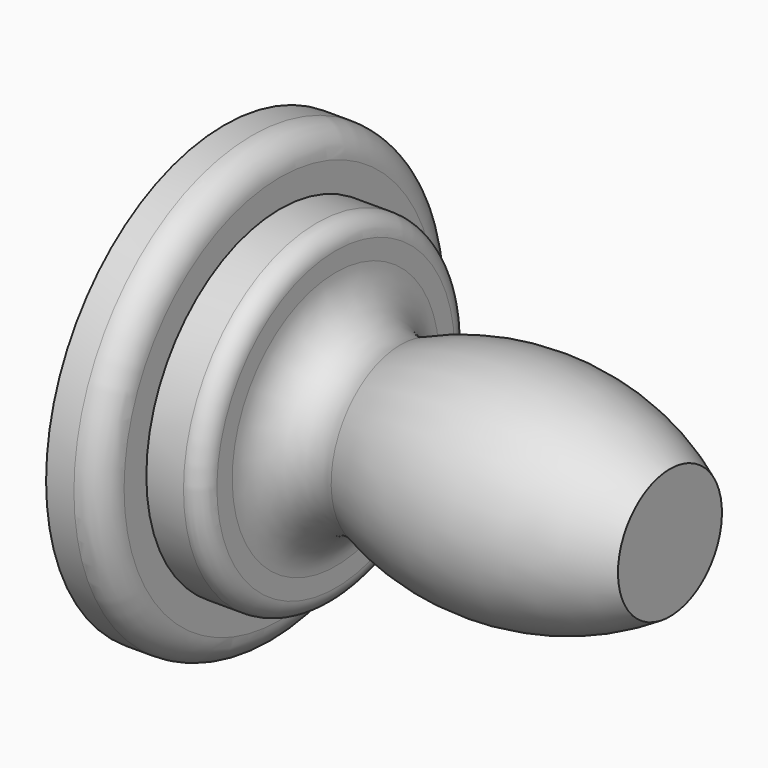
from build123d import *


with BuildPart() as f1:
    # F0 (on Front) → F1 (revolve)
    with BuildSketch(Plane.XZ):
        with BuildLine():
            Line((-24, 0), (0, 0))
            Line((0, 0), (0, 3.5))
            ThreePointArc((0, 3.5), (-7.107681, 5.895494), (-14.507932, 4.673281))
            ThreePointArc((-14.507932, 4.673281), (-16.872922, 4.878736), (-18, 6.968014))
            Line((-18, 6.968014), (-18, 8))
            ThreePointArc((-18, 8), (-18.292893, 8.707107), (-19, 9))
            Line((-19, 9), (-21, 9))
            Line((-21, 9), (-21, 10.5))
            ThreePointArc((-21, 10.5), (-21.43934, 11.56066), (-22.5, 12))
            Line((-22.5, 12), (-24, 12))
            Line((-24, 12), (-24, 0))
        make_face()
    revolve(axis=Axis((-12, 0, 0), (-1, 0, 0)))


solid = f1.part
